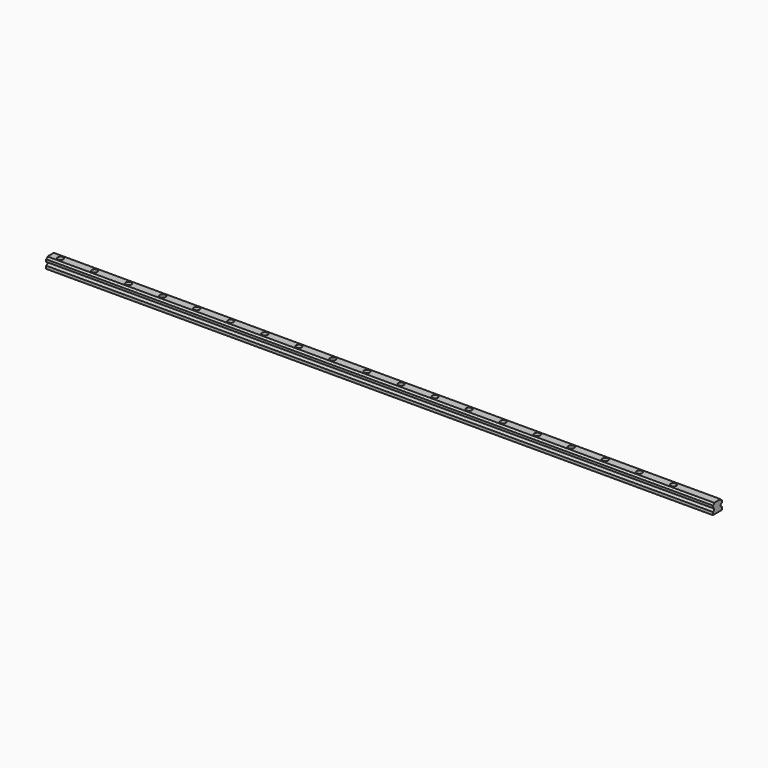
from build123d import *

# Parameters (mm, degrees)
F1_DEPTH = 1175
F2_R     = 3
F3_DEPTH = 18
F4_R     = 5
F5_DEPTH = 7


with BuildPart() as f1:
    # F0 (on Right) → F1 (new body)
    with BuildSketch(Plane.YZ):
        with BuildLine():
            Line((-26.041336, 5), (-26.041336, 0))
            Line((-26.041336, 0), (-6.041336, 0))
            Line((-6.041336, 0), (-6.041336, 5))
            ThreePointArc((-6.041336, 5), (-9.041336, 8), (-6.041336, 11))
            Line((-6.041336, 11), (-6.041336, 15))
            ThreePointArc((-6.041336, 15), (-8.162657, 15.87868), (-9.041336, 18))
            Line((-9.041336, 18), (-23.041336, 18))
            ThreePointArc((-23.041336, 18), (-23.920016, 15.87868), (-26.041336, 15))
            Line((-26.041336, 15), (-26.041336, 11))
            ThreePointArc((-26.041336, 11), (-23.041336, 8), (-26.041336, 5))
        make_face()
    extrude(amount=F1_DEPTH)

    # F2 (on face) → F3 (cut)
    with BuildSketch(Plane.XY.offset(18)):
        with Locations((17.5, -16.041336)):
            Circle(F2_R)
        with Locations((77.5, -16.041336)):
            Circle(F2_R)
        with Locations((137.5, -16.041336)):
            Circle(F2_R)
        with Locations((197.5, -16.041336)):
            Circle(F2_R)
        with Locations((257.5, -16.041336)):
            Circle(F2_R)
        with Locations((317.5, -16.041336)):
            Circle(F2_R)
        with Locations((377.5, -16.041336)):
            Circle(F2_R)
        with Locations((437.5, -16.041336)):
            Circle(F2_R)
        with Locations((497.5, -16.041336)):
            Circle(F2_R)
        with Locations((557.5, -16.041336)):
            Circle(F2_R)
        with Locations((617.5, -16.041336)):
            Circle(F2_R)
        with Locations((677.5, -16.041336)):
            Circle(F2_R)
        with Locations((737.5, -16.041336)):
            Circle(F2_R)
        with Locations((797.5, -16.041336)):
            Circle(F2_R)
        with Locations((857.5, -16.041336)):
            Circle(F2_R)
        with Locations((917.5, -16.041336)):
            Circle(F2_R)
        with Locations((977.5, -16.041336)):
            Circle(F2_R)
        with Locations((1037.5, -16.041336)):
            Circle(F2_R)
        with Locations((1097.5, -16.041336)):
            Circle(F2_R)
    extrude(amount=-F3_DEPTH, mode=Mode.SUBTRACT)

    # F4 (on face) → F5 (cut)
    with BuildSketch(Plane.XY.offset(18)):
        with Locations((17.5, -16.041336)):
            Circle(F4_R)
        with Locations((77.5, -16.041336)):
            Circle(F4_R)
        with Locations((137.5, -16.041336)):
            Circle(F4_R)
        with Locations((197.5, -16.041336)):
            Circle(F4_R)
        with Locations((257.5, -16.041336)):
            Circle(F4_R)
        with Locations((317.5, -16.041336)):
            Circle(F4_R)
        with Locations((377.5, -16.041336)):
            Circle(F4_R)
        with Locations((437.5, -16.041336)):
            Circle(F4_R)
        with Locations((497.5, -16.041336)):
            Circle(F4_R)
        with Locations((557.5, -16.041336)):
            Circle(F4_R)
        with Locations((617.5, -16.041336)):
            Circle(F4_R)
        with Locations((677.5, -16.041336)):
            Circle(F4_R)
        with Locations((737.5, -16.041336)):
            Circle(F4_R)
        with Locations((797.5, -16.041336)):
            Circle(F4_R)
        with Locations((857.5, -16.041336)):
            Circle(F4_R)
        with Locations((917.5, -16.041336)):
            Circle(F4_R)
        with Locations((977.5, -16.041336)):
            Circle(F4_R)
        with Locations((1037.5, -16.041336)):
            Circle(F4_R)
        with Locations((1097.5, -16.041336)):
            Circle(F4_R)
    extrude(amount=-F5_DEPTH, mode=Mode.SUBTRACT)


solid = f1.part
